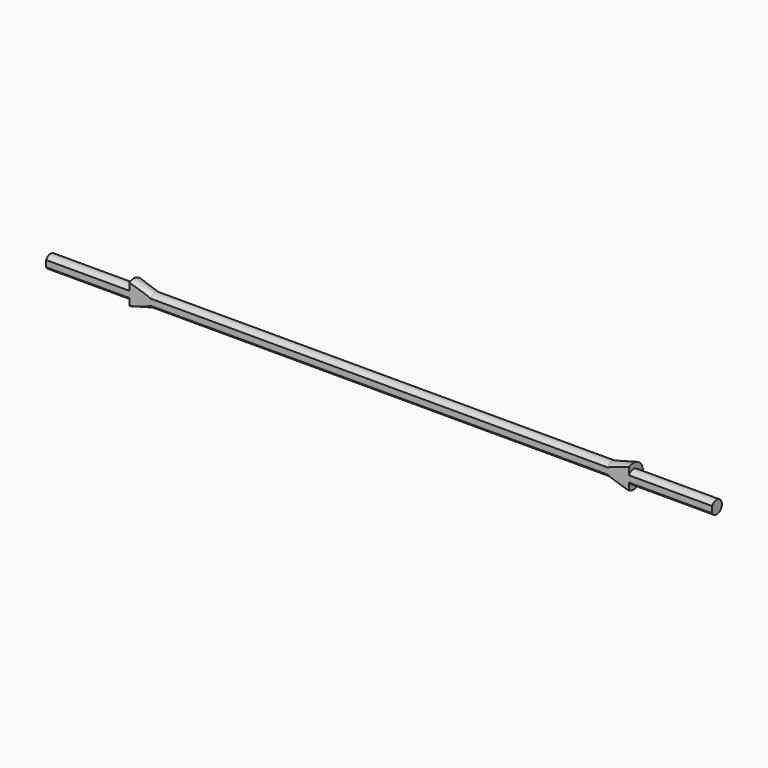
from build123d import *

# Parameters (mm, degrees)
F0_W     = 27.5
F0_H     = 2.15
F3_START = -220
F3_DEPTH = 245


with BuildPart() as f1:
    # F0 (on Top) → F1 (revolve)
    with BuildSketch(Plane.XY):
        Polygon((61.7837157349, -1.75), (-89.1618939737, -1.75), (-80.5284827948, -3.9), (53.1503045559, -3.9), align=None)
        Polygon((-89.1618939737, -1.75), (-96.1890891194, -1.75), (-96.1890891194, -3.9), (-80.5284827948, -3.9), align=None)
        Polygon((-96.1890891194, 0), (-96.1890891194, -1.75), (-89.1618939737, -1.75), align=None)
        with Locations((-109.9390891194, -2.825)):
            Rectangle(F0_W, F0_H)
        Polygon((68.8109108806, -1.75), (61.7837157349, -1.75), (53.1503045559, -3.9), (68.8109108806, -3.9), align=None)
        Polygon((68.8109108806, 0), (61.7837157349, -1.75), (68.8109108806, -1.75), align=None)
        with Locations((82.5609108806, -2.825)):
            Rectangle(F0_W, F0_H)
    revolve(axis=Axis((-13.6890891194, -3.9, 0), (-1, 0, 0)))

    # F2 (on face) → F3 (intersect)
    with BuildSketch(Plane(origin=(-123.6890891194, 0, 0), x_dir=(0, -1, 0), z_dir=(-1, 0, 0)).offset(F3_START)):
        with BuildLine():
            ThreePointArc((5.7773347944, -3.4184227459), (0, 0), (5.7773347944, 3.4184227459))
            Line((5.7773347944, 3.4184227459), (5.7773347944, 9.4206367507))
            Line((5.7773347944, 9.4206367507), (-5.0182881541, 9.4206367507))
            Line((-5.0182881541, 9.4206367507), (-5.0182881541, -6.6582962737))
            Line((-5.0182881541, -6.6582962737), (5.7773347944, -6.6582962737))
            Line((5.7773347944, -6.6582962737), (5.7773347944, -3.4184227459))
        make_face()
        with BuildLine():
            Line((5.7773347944, -1.0479093805), (5.7773347944, 1.0479093805))
            ThreePointArc((5.7773347944, 1.0479093805), (1.75, 0), (5.7773347944, -1.0479093805))
        make_face()
        with BuildLine():
            ThreePointArc((5.7773347944, -1.0479093805), (1.75, 0), (5.7773347944, 1.0479093805))
            Line((5.7773347944, 1.0479093805), (5.7773347944, 3.4184227459))
            ThreePointArc((5.7773347944, 3.4184227459), (0, 0), (5.7773347944, -3.4184227459))
            Line((5.7773347944, -3.4184227459), (5.7773347944, -1.0479093805))
        make_face()
    extrude(amount=F3_DEPTH, mode=Mode.INTERSECT)


solid = f1.part
